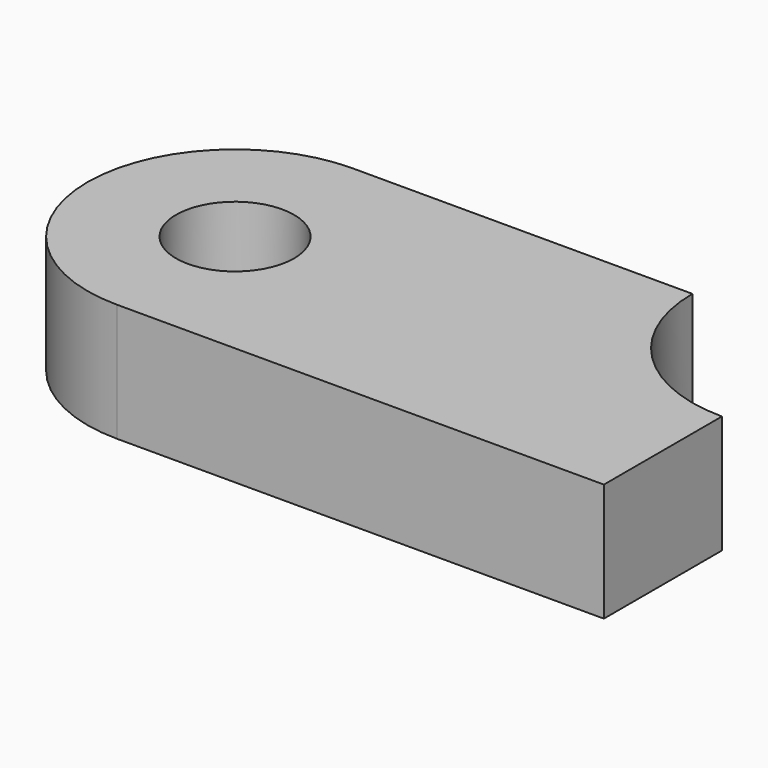
from build123d import *

# Parameters (mm, degrees)
F0_R     = 12.7
F1_DEPTH = 25.4


with BuildPart() as f1:
    # F0 (on Top) → F1 (new body)
    with BuildSketch(Plane.XY):
        with BuildLine():
            ThreePointArc((31.75, 63.5), (0, 31.75), (31.75, 0))
            Line((31.75, 0), (136.525, 0))
            Line((136.525, 0), (136.525, 31.75))
            ThreePointArc((136.525, 31.75), (114.07436, 41.04936), (104.775, 63.5))
            Line((104.775, 63.5), (31.75, 63.5))
        make_face()
        with Locations((31.75, 31.75)):
            Circle(F0_R, mode=Mode.SUBTRACT)
    extrude(amount=F1_DEPTH)


solid = f1.part
